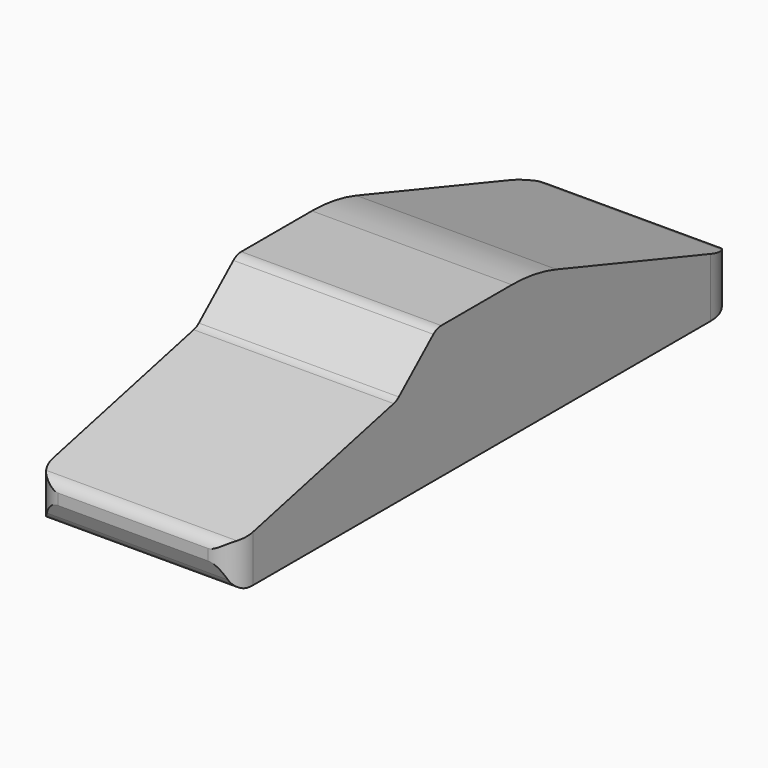
from build123d import *

# Parameters (mm, degrees)
F1_DEPTH      = 20
F1_DEPTH_BACK = 20
F3_DEPTH      = 76.2


with BuildPart() as f1:
    # F0 (on Right) → F1 (new body, two sides)
    with BuildSketch(Plane.YZ) as f1_sk:
        with BuildLine():
            ThreePointArc((-64.322132, 9.457452), (-63.219291, 8.077235), (-61.530907, 7.557025))
            Line((-61.530907, 7.557025), (59.016388, 7.557025))
            ThreePointArc((59.016388, 7.557025), (61.198248, 8.498024), (62.011356, 10.730701))
            Line((62.011356, 10.730701), (61.85407, 13.443045))
            ThreePointArc((61.85407, 13.443045), (60.835607, 16.189055), (58.453902, 17.893554))
            Line((58.453902, 17.893554), (15.437278, 32.336405))
            ThreePointArc((15.437278, 32.336405), (9.941079, 33.698575), (4.297153, 34.156628))
            Line((4.297153, 34.156628), (-13.367769, 34.156628))
            ThreePointArc((-13.367769, 34.156628), (-14.419018, 33.96641), (-15.336957, 33.419877))
            Line((-15.336957, 33.419877), (-23.977762, 25.901761))
            ThreePointArc((-23.977762, 25.901761), (-24.578012, 25.495552), (-25.258163, 25.245152))
            Line((-25.258163, 25.245152), (-63.318736, 16.266761))
            ThreePointArc((-63.318736, 16.266761), (-65.288253, 14.737378), (-65.421175, 12.24733))
            Line((-65.421175, 12.24733), (-64.322132, 9.457452))
        make_face()
    extrude(amount=F1_DEPTH)
    extrude(f1_sk.sketch, amount=-F1_DEPTH_BACK)

    # F2 (on Top) → F3 (intersect)
    with BuildSketch(Plane.XY):
        with BuildLine():
            Line((12, 62.011356), (-12, 62.011356))
            ThreePointArc((-12, 62.011356), (-17.656854, 59.668211), (-20, 54.011356))
            Line((-20, 54.011356), (-20, -60.421175))
            ThreePointArc((-20, -60.421175), (-18.535534, -63.956708), (-15, -65.421175))
            Line((-15, -65.421175), (15, -65.421175))
            ThreePointArc((15, -65.421175), (18.535534, -63.956708), (20, -60.421175))
            Line((20, -60.421175), (20, 54.011356))
            ThreePointArc((20, 54.011356), (17.656854, 59.668211), (12, 62.011356))
        make_face()
    extrude(amount=F3_DEPTH, mode=Mode.INTERSECT)


solid = f1.part
